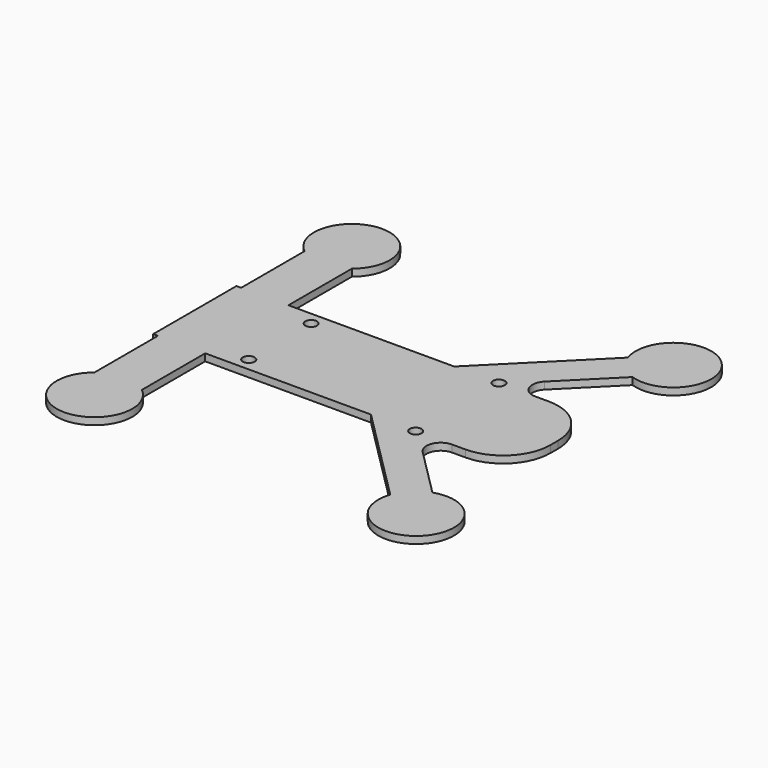
from build123d import *

# Parameters (mm, degrees)
F1_DEPTH = 1.5
F2_R     = 1.25
F3_DEPTH = 25


with BuildPart() as f1:
    # F0 (on Top) → F1 (new body)
    with BuildSketch(Plane.XY):
        with BuildLine():
            Line((-7, 11), (-7, 27.755002))
            ThreePointArc((-7, 27.755002), (-12, 42), (-17, 27.755002))
            Line((-17, 27.755002), (-17, 11))
            Line((-17, 11), (-18, 11))
            Line((-18, 11), (-18, -11))
            Line((-18, -11), (-17, -11))
            Line((-17, -11), (-17, -27.755002))
            ThreePointArc((-17, -27.755002), (-12, -42), (-7, -27.755002))
            Line((-7, -27.755002), (-7, -11))
            Line((-7, -11), (28.050253, -11))
            Line((28.050253, -11), (48.438379, -31.388126))
            ThreePointArc((48.438379, -31.388126), (61.656854, -39.656854), (53.388126, -26.438379))
            Line((53.388126, -26.438379), (43.071068, -16.12132))
            ThreePointArc((43.071068, -16.12132), (42.42075, -12.85195), (45.192388, -11))
            Line((45.192388, -11), (48, -11))
            ThreePointArc((48, -11), (55.071068, -8.071068), (58, -1))
            Line((58, -1), (58, 1))
            ThreePointArc((58, 1), (55.071068, 8.071068), (48, 11))
            Line((48, 11), (45.192388, 11))
            ThreePointArc((45.192388, 11), (42.42075, 12.85195), (43.071068, 16.12132))
            Line((43.071068, 16.12132), (53.388126, 26.438379))
            ThreePointArc((53.388126, 26.438379), (61.656854, 39.656854), (48.438379, 31.388126))
            Line((48.438379, 31.388126), (28.050253, 11))
            Line((28.050253, 11), (-7, 11))
        make_face()
    extrude(amount=F1_DEPTH)

    # F2 (on Top) → F3 (cut)
    with BuildSketch(Plane.XY):
        with Locations((0, -8.25)):
            Circle(F2_R)
        with Locations((0, 8.25)):
            Circle(F2_R)
        with Locations((37.5, -11)):
            Circle(F2_R)
        with Locations((37.5, 11)):
            Circle(F2_R)
    extrude(amount=F3_DEPTH, mode=Mode.SUBTRACT)


solid = f1.part
